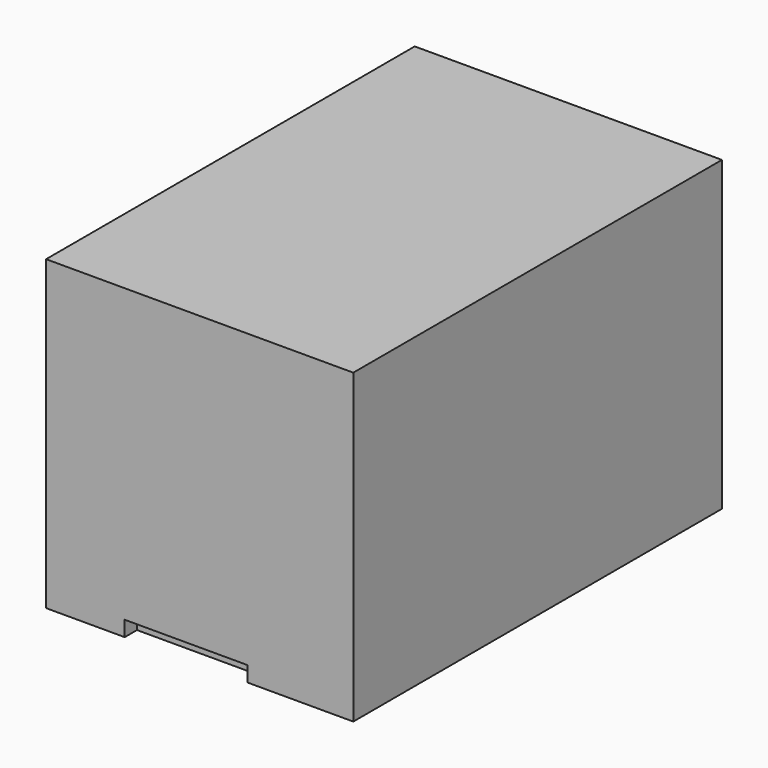
from build123d import *

# Parameters (mm, degrees)
SKETCH_W        = 3000
SKETCH_H        = 4500
PAD_DEPTH       = 3000
SKETCH001_W     = 50
SKETCH001_H     = 50
POCKET_DEPTH    = 620
SKETCH002_W     = 1409.884701
SKETCH002_H     = 728.440368
SKETCH002_W_2   = 540.455688
SKETCH002_H_2   = 1010.417297
POCKET001_DEPTH = 140
SKETCH003_W     = 40
SKETCH003_H     = 40
POCKET002_DEPTH = 200
SKETCH004_W     = 2112.84549
SKETCH004_H     = 1663.694153
POCKET003_DEPTH = 300
SKETCH005_W     = 156.741333
SKETCH005_H     = 548.59497
POCKET004_DEPTH = 500
POCKET005_DEPTH = 350
SKETCH007_W     = 40
SKETCH007_H     = 40
POCKET006_DEPTH = 70
SKETCH008_W     = 447.72461
SKETCH008_H     = 719.377807
POCKET007_DEPTH = 1130
SKETCH009_W     = 399.386474
SKETCH009_H     = 402.45874
POCKET008_DEPTH = 1100
SKETCH010_W     = 1200
SKETCH010_H     = 150
POCKET009_DEPTH = 150


with BuildPart() as part:
    # Sketch → Pad (new body)
    with BuildSketch(Plane.XY):
        with Locations((151.357382, 140.234829)):
            Rectangle(SKETCH_W, SKETCH_H)
    extrude(amount=PAD_DEPTH)

    # Sketch001 (on Face5 of Pad) → Pocket (cut)
    with BuildSketch(Plane(origin=(0, 0, 0), x_dir=(1, 0, 0), z_dir=(0, 0, -1))):
        with Locations((1312.296392, 1147.807671)):
            Rectangle(SKETCH001_W, SKETCH001_H)
        with Locations((1262.296363, 483.708062)):
            Rectangle(SKETCH001_W, SKETCH001_H)
        with Locations((-37.703608, 1147.807727)):
            Rectangle(SKETCH001_W, SKETCH001_H)
        with Locations((-37.703637, 483.708118)):
            Rectangle(SKETCH001_W, SKETCH001_H)
        with Locations((1583.184133, 320.652509)):
            Rectangle(SKETCH001_W, SKETCH001_H)
        with Locations((1583.184094, -629.347491)):
            Rectangle(SKETCH001_W, SKETCH001_H)
        with Locations((1103.184133, 320.65253)):
            Rectangle(SKETCH001_W, SKETCH001_H)
        with Locations((1103.184094, -629.34747)):
            Rectangle(SKETCH001_W, SKETCH001_H)
    extrude(amount=-POCKET_DEPTH, mode=Mode.SUBTRACT)

    # Sketch002 (on Face41 of Pocket) → Pocket001 (cut)
    with BuildSketch(Plane(origin=(0, 0, 620), x_dir=(1, 0, 0), z_dir=(0, 0, -1))):
        with Locations((636.582521, 820.87149)):
            Rectangle(SKETCH002_W, SKETCH002_H)
        with Locations((1347.399597, -155.917999)):
            Rectangle(SKETCH002_W_2, SKETCH002_H_2)
    extrude(amount=-POCKET001_DEPTH, mode=Mode.SUBTRACT)

    # Sketch003 (on Face4 of Pocket001) → Pocket002 (cut)
    with BuildSketch(Plane(origin=(0, 0, 0), x_dir=(1, 0, 0), z_dir=(0, 0, -1))):
        with Locations((1589.720951, -2291.816083)):
            Rectangle(SKETCH003_W, SKETCH003_H)
        with Locations((-415.324337, -2331.815908)):
            Rectangle(SKETCH003_W, SKETCH003_H)
        with Locations((1589.721091, -731.816083)):
            Rectangle(SKETCH003_W, SKETCH003_H)
        with Locations((-415.324197, -731.815908)):
            Rectangle(SKETCH003_W, SKETCH003_H)
        with Locations((259.185181, -1452.052124)):
            Rectangle(SKETCH003_W, SKETCH003_H)
        with Locations((1090.75708, -1452.052124)):
            Rectangle(SKETCH003_W, SKETCH003_H)
    extrude(amount=-POCKET002_DEPTH, mode=Mode.SUBTRACT)

    # Sketch004 (on Face65 of Pocket002) → Pocket003 (cut)
    with BuildSketch(Plane(origin=(0, 0, 200), x_dir=(1, 0, 0), z_dir=(0, 0, -1))):
        with Locations((574.232895, -1517.024749)):
            Rectangle(SKETCH004_W, SKETCH004_H)
    extrude(amount=-POCKET003_DEPTH, mode=Mode.SUBTRACT)

    # Sketch005 (on Face4 of Pocket003) → Pocket004 (cut)
    with BuildSketch(Plane(origin=(0, 0, 0), x_dir=(1, 0, 0), z_dir=(0, 0, -1))):
        with Locations((1541.169494, 896.96875)):
            Rectangle(SKETCH005_W, SKETCH005_H)
    extrude(amount=-POCKET004_DEPTH, mode=Mode.SUBTRACT)

    # Sketch006 (on Face84 of Pocket004) → Pocket005 (cut)
    with BuildSketch(Plane(origin=(0, 0, 760), x_dir=(1, 0, 0), z_dir=(0, 0, -1))):
        Polygon((973.763098, 1118.553795), (1580.067498, 959.214839), (1590.954249, 1000.640272), (984.649849, 1159.979227), align=None)
    extrude(amount=-POCKET005_DEPTH, mode=Mode.SUBTRACT)

    # Sketch007 (on Face4 of Pocket005) → Pocket006 (cut)
    with BuildSketch(Plane(origin=(0, 0, 0), x_dir=(1, 0, 0), z_dir=(0, 0, -1))):
        with Locations((1234.749634, 1899.004272)):
            Rectangle(SKETCH007_W, SKETCH007_H)
        with Locations((1601.614674, 1902.68077)):
            Rectangle(SKETCH007_W, SKETCH007_H)
        with Locations((1241.400585, 1235.328873)):
            Rectangle(SKETCH007_W, SKETCH007_H)
        with Locations((1608.265625, 1239.005371)):
            Rectangle(SKETCH007_W, SKETCH007_H)
    extrude(amount=-POCKET006_DEPTH, mode=Mode.SUBTRACT)

    # Sketch008 (on Face84 of Pocket006) → Pocket007 (cut)
    with BuildSketch(Plane(origin=(0, 0, 70), x_dir=(1, 0, 0), z_dir=(0, 0, -1))):
        with Locations((1419.572632, 1563.391296)):
            Rectangle(SKETCH008_W, SKETCH008_H)
    extrude(amount=-POCKET007_DEPTH, mode=Mode.SUBTRACT)

    # Sketch009 (on Face4 of Pocket007) → Pocket008 (cut)
    with BuildSketch(Plane(origin=(0, 0, 0), x_dir=(1, 0, 0), z_dir=(0, 0, -1))):
        with Locations((-1128.49646, 1884.937378)):
            Rectangle(SKETCH009_W, SKETCH009_H)
    extrude(amount=-POCKET008_DEPTH, mode=Mode.SUBTRACT)

    # Sketch010 (on Face4 of Pocket008) → Pocket009 (cut)
    with BuildSketch(Plane(origin=(0, 0, 0), x_dir=(1, 0, 0), z_dir=(0, 0, -1))):
        with Locations((19.272915, 2034.765171)):
            Rectangle(SKETCH010_W, SKETCH010_H)
    extrude(amount=-POCKET009_DEPTH, mode=Mode.SUBTRACT)


solid = part.part
